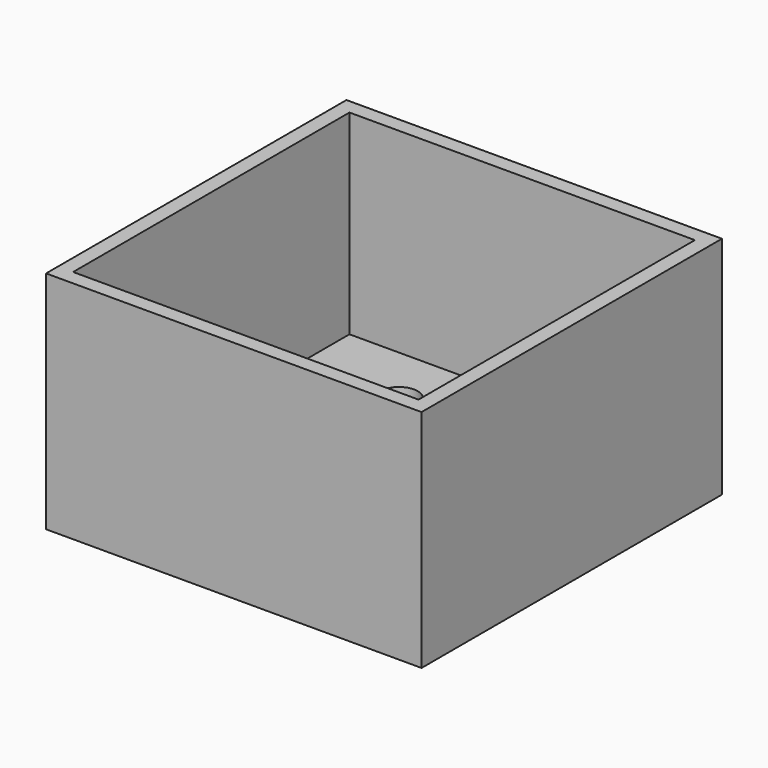
from build123d import *

# Parameters (mm, degrees)
F0_W     = 127
F0_H     = 127
F1_DEPTH = 76.2
F2_W     = 116.84
F2_H     = 116.84
F3_DEPTH = 66.04
F4_R     = 6.35
F5_DEPTH = 76.201


with BuildPart() as f1:
    # F0 (on Top) → F1 (new body)
    with BuildSketch(Plane.XY):
        Rectangle(F0_W, F0_H)
    extrude(amount=F1_DEPTH)

    # F2 (on face) → F3 (cut)
    with BuildSketch(Plane.XY.offset(76.2)):
        Rectangle(F2_W, F2_H)
    extrude(amount=-F3_DEPTH, mode=Mode.SUBTRACT)

    # F4 (on face) → F5 (cut, through all)
    with BuildSketch(Plane(origin=(0, 0, 0), x_dir=(1, 0, 0), z_dir=(0, 0, -1))):
        with Locations((-25.4, -38.1)):
            Circle(F4_R)
    extrude(amount=-F5_DEPTH, mode=Mode.SUBTRACT)


solid = f1.part
